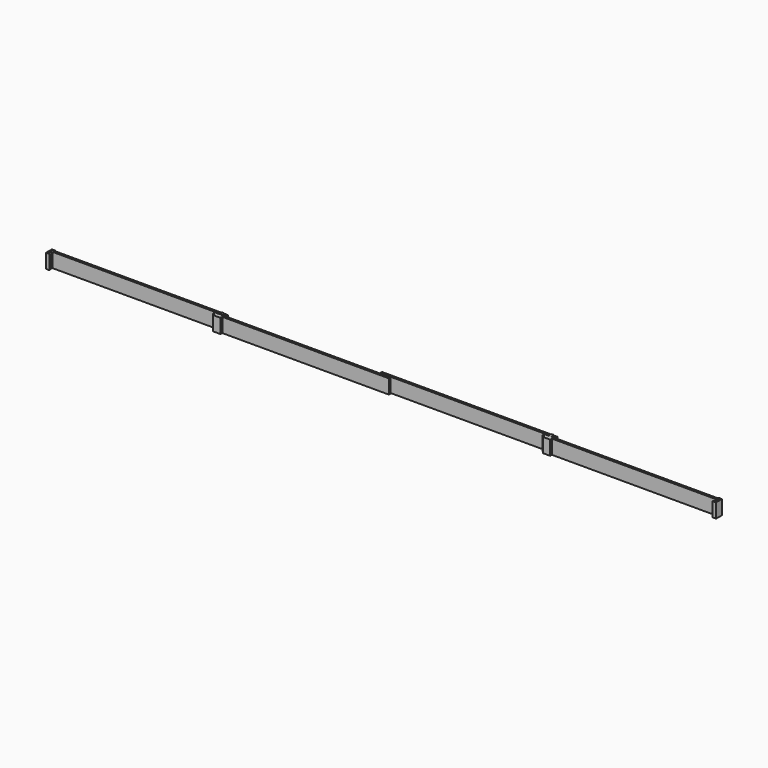
from build123d import *

# Parameters (mm, degrees)
F0_W     = 20
F0_H     = 6
F0_W_2   = 5.1789569855
F0_W_3   = 461.2922945023
F0_W_4   = 4.9307346344
F0_H_2   = 3.1461458206
F0_H_3   = 2
F0_H_4   = 1.7102184296
F0_W_5   = 12.7769708633
F0_W_6   = 453.8210430145
F1_DEPTH = 39
F0_W_7   = 461.6499215364
F0_W_8   = 6
F0_H_5   = 2.9253702164
F0_H_6   = 2.0746297836
F0_W_9   = 11.3500784636
F0_W_10  = 5.483762145
F0_W_11  = 453.516237855


with BuildPart() as f1:
    # F0 (on Top) → F1 (new body)
    with BuildSketch(Plane.XY):
        with Locations((-1047.2112798691, -776.8197283745)):
            Rectangle(F0_W, F0_H)
        Polygon((-1050.0979423523, -770.9658741951), (-1050.0979423523, -767.8197283745), (-1057.2112798691, -767.8197283745), (-1057.2112798691, -773.8197283745), (-1037.2112798691, -773.8197283745), (-1037.2112798691, -767.8197283745), (-1045.1672077179, -767.8197283745), (-1045.1672077179, -770.9658741951), align=None)
        with Locations((-1059.8007583618, -770.8197283745)):
            Rectangle(F0_W_2, F0_H)
        with Locations((-1280.7440896034, -762.8197283745)):
            Rectangle(F0_W_3, F0_H)
        with Locations((-1047.6325750351, -762.8197283745)):
            Rectangle(F0_W_4, F0_H)
        with Locations((-1047.6325750351, -769.3928012848)):
            Rectangle(F0_W_4, F0_H_2)
        with Locations((-1047.6325750351, -766.8197283745)):
            Rectangle(F0_W_4, F0_H_3)
        with Locations((-1047.6325750351, -758.9646191597)):
            Rectangle(F0_W_4, F0_H_4)
        with Locations((-1038.7787222862, -762.8197283745)):
            Rectangle(F0_W_5, F0_H)
        with Locations((-810.3007583618, -770.8197283745)):
            Rectangle(F0_W_6, F0_H)
    extrude(amount=-F1_DEPTH)


with BuildPart() as f1b:
    # F0 (on Top) → F1, piece 2 (new body)
    with BuildSketch(Plane.XY):
        Polygon((-1512.5509243011, -759.315735817), (-1505.5509243011, -759.315735817), (-1505.5509243011, -757.315735817), (-1514.5509243011, -757.315735817), (-1514.5509243011, -777.315735817), (-1505.5509243011, -777.315735817), (-1505.5509243011, -775.315735817), (-1512.5509243011, -775.315735817), (-1512.5509243011, -768.315735817), (-1505.5509243011, -768.315735817), (-1505.5509243011, -766.315735817), (-1512.5509243011, -766.315735817), align=None)
    extrude(amount=-F1_DEPTH)


with BuildPart() as f1c:
    # F0 (on Top) → F1, piece 3 (new body)
    with BuildSketch(Plane.XY):
        with Locations((-382.5652760863, -762.8197283745)):
            Rectangle(F0_W_7, F0_H)
        with Locations((-148.9064747095, -776.8197283745)):
            Rectangle(F0_W, F0_H)
        Polygon((-151.7403153181, -770.7450985909), (-151.7403153181, -767.8197283745), (-158.9064747095, -767.8197283745), (-158.9064747095, -773.8197283745), (-138.9064747095, -773.8197283745), (-138.9064747095, -767.8197283745), (-145.7403153181, -767.8197283745), (-145.7403153181, -770.7450985909), align=None)
        with Locations((-148.7403153181, -769.2824134827)):
            Rectangle(F0_W_8, F0_H_5)
        with Locations((-148.7403153181, -766.8197283745)):
            Rectangle(F0_W_8, F0_H_3)
        with Locations((-148.7403153181, -762.8197283745)):
            Rectangle(F0_W_8, F0_H)
        with Locations((-148.7403153181, -758.7824134827)):
            Rectangle(F0_W_8, F0_H_6)
        with Locations((-140.0652760863, -762.8197283745)):
            Rectangle(F0_W_9, F0_H)
        with Locations((-161.648355782, -770.8197283745)):
            Rectangle(F0_W_10, F0_H)
        with Locations((87.851644218, -770.8197283745)):
            Rectangle(F0_W_11, F0_H)
    extrude(amount=-F1_DEPTH)


with BuildPart() as f1d:
    # F0 (on Top) → F1, piece 4 (new body)
    with BuildSketch(Plane.XY):
        Polygon((315.6097631454, -783.3197283745), (308.6097631454, -783.3197283745), (308.6097631454, -785.3197283745), (317.6097631454, -785.3197283745), (317.6097631454, -765.3197283745), (308.6097631454, -765.3197283745), (308.6097631454, -767.3197283745), (315.6097631454, -767.3197283745), (315.6097631454, -774.3197283745), (308.6097631454, -774.3197283745), (308.6097631454, -776.3197283745), (315.6097631454, -776.3197283745), align=None)
    extrude(amount=-F1_DEPTH)


solid = Compound([f1.part, f1b.part, f1c.part, f1d.part])
